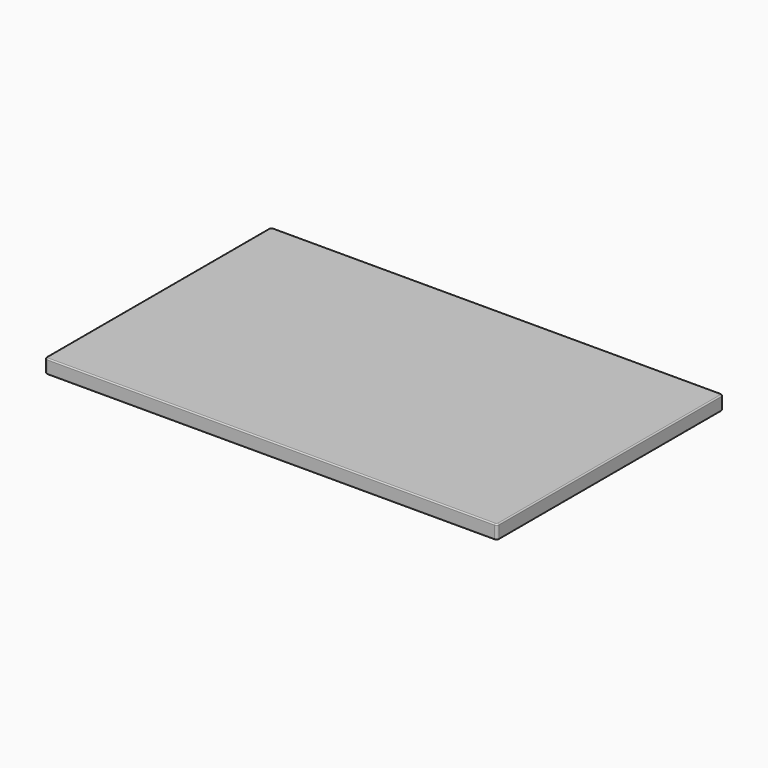
from build123d import *

# Parameters (mm, degrees)
F0_W     = 1219.2
F0_H     = 762
F1_DEPTH = 38.1
F2_R     = 6.35
F3_R     = 3.175
F4_W     = 965.2
F4_H     = 457.2
F5_DEPTH = 25.4


with BuildPart() as f1:
    # F0 (on Top) → F1 (new body)
    with BuildSketch(Plane.XY):
        Rectangle(F0_W, F0_H)
    extrude(amount=F1_DEPTH)

    # F2
    f2_edges = [f1.edges().sort_by_distance(p)[0] for p in [
        (-609.6, -381, 19.05),
        (609.6, -381, 19.05),
        (-609.6, 381, 19.05),
        (609.6, 381, 19.05),
    ]]
    fillet(f2_edges, radius=F2_R)

    # F3
    f3_edges = [f1.edges().sort_by_distance(p)[0] for p in [
        (609.6, 0, 38.1),
        (609.6, 0, 0),
    ]]
    fillet(f3_edges, radius=F3_R)


with BuildPart() as f5:
    # F4 (on face) → F5 (new body)
    with BuildSketch(Plane(origin=(0, 0, 0), x_dir=(1, 0, 0), z_dir=(0, 0, -1))):
        Rectangle(F4_W, F4_H)
    extrude(amount=F5_DEPTH)


solid = Compound([f1.part, f5.part])
